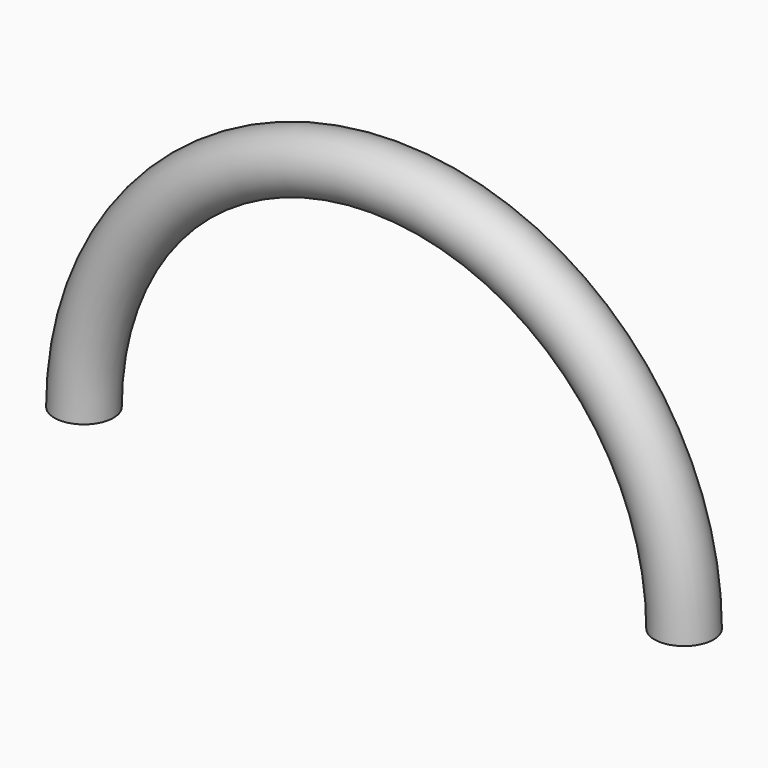
from build123d import *

# Parameters (mm, degrees)
F1_R = 2.5019


with BuildPart() as f2:
    # F2: sweep along a path in F0
    with BuildLine(Plane.XZ) as f2_path:
        ThreePointArc((50.8, 0), (25.4, 25.4), (0, 0))
    # F1 (on Top) → F2 (sweep)
    with BuildSketch(Plane.XY):
        Circle(F1_R)
    sweep(path=f2_path.line)


solid = f2.part
